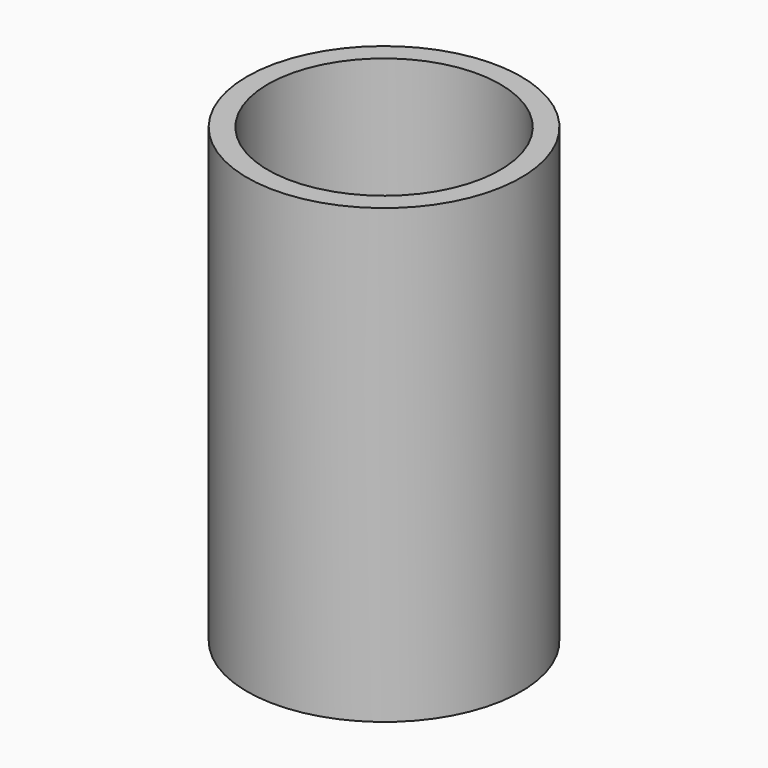
from build123d import *

# Parameters (mm, degrees)
F0_W = 32.885318
F0_H = 108.601231
F2_T = -5


with BuildPart() as f1:
    # F0 (on Front) → F1 (revolve)
    with BuildSketch(Plane.XZ):
        with Locations((-16.442661, -4.272378)):
            Rectangle(F0_W, F0_H)
    revolve(axis=Axis((-2e-06, 0, -4.272377), (0, 0, -1)))

    # F2
    f2_openings = [f1.faces().sort_by_distance(p)[0] for p in [
        (-2e-06, 0, 50.028238),
    ]]
    offset(amount=F2_T, openings=f2_openings)


solid = f1.part
